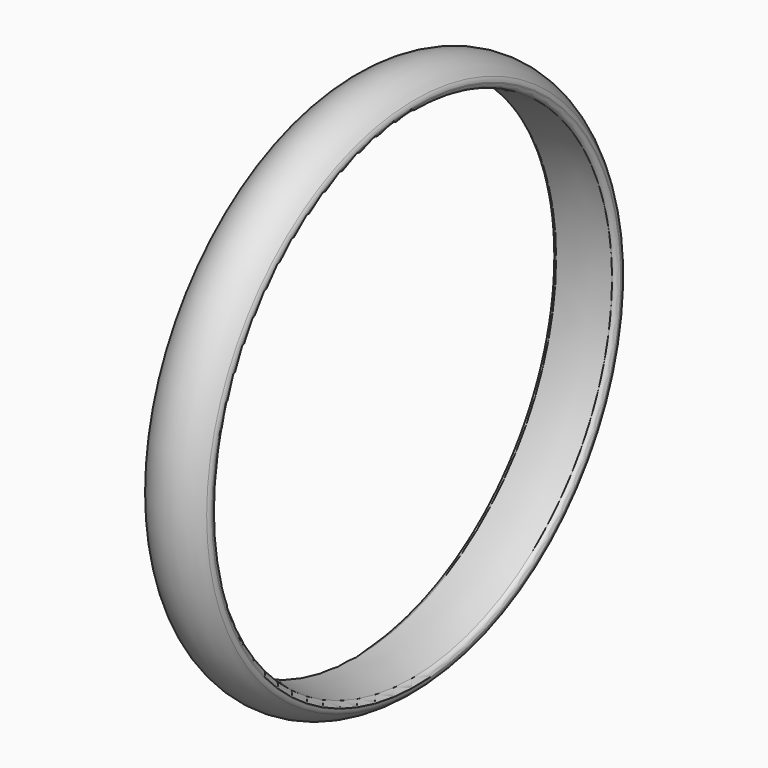
from build123d import *


with BuildPart() as part:
    # Sketch → Revolution (revolve)
    with BuildSketch(Plane.XY):
        with BuildLine():
            Line((0, -982.510836), (0, -985.611786))
            ThreePointArc((0, -985.611786), (1.676589, -994.612814), (6.481481, -1002.406561))
            ThreePointArc((6.481481, -1002.406561), (125, -1054.92), (243.518519, -1002.406561))
            ThreePointArc((243.518519, -1002.406561), (248.323411, -994.612814), (250, -985.611786))
            Line((250, -982.510836), (250, -985.611786))
            ThreePointArc((250, -982.510836), (245.12505, -969.425238), (232.876712, -962.718804))
            ThreePointArc((232.876712, -962.718804), (125, -954.92), (17.123288, -962.718804))
            ThreePointArc((17.123288, -962.718804), (4.87495, -969.425238), (0, -982.510836))
        make_face()
    revolve(axis=Axis((0, 0, 0), (1, 0, 0)))


solid = part.part
